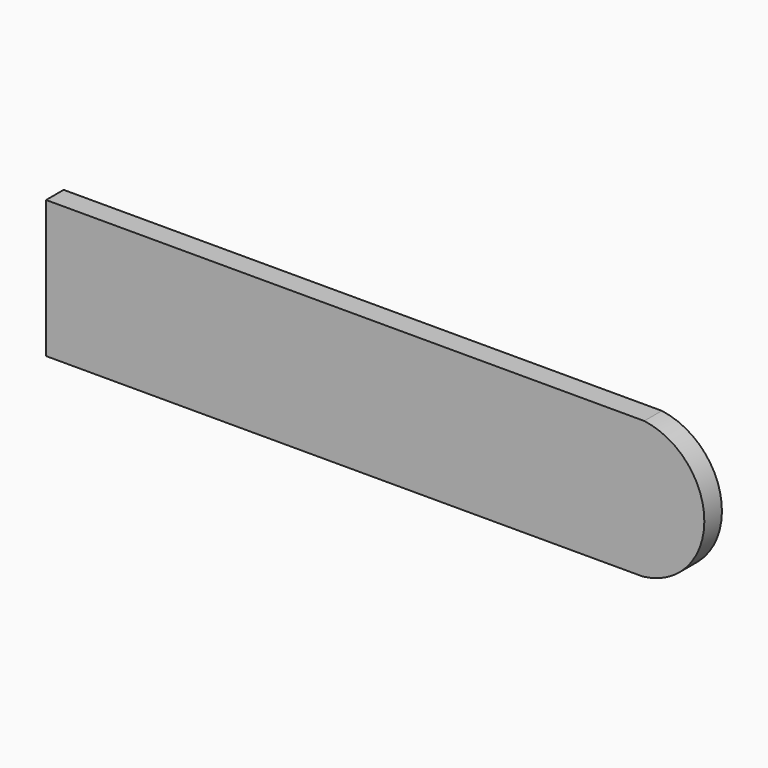
from build123d import *

# Parameters (mm, degrees)
F0_W     = 120
F0_H     = 25
F1_DEPTH = 4
F3_DEPTH = 25


with BuildPart() as f1:
    # F0 (on Front) → F1 (new body)
    with BuildSketch(Plane.XZ):
        Rectangle(F0_W, F0_H)
    extrude(amount=F1_DEPTH)

    # F2 (on face) → F3 (cut)
    with BuildSketch(Plane.XZ.offset(4)):
        with BuildLine():
            ThreePointArc((48.815694, 12.5), (59.74342, -0.104365), (48.579484, -12.5))
            Line((48.579484, -12.5), (60, -12.5))
            Line((60, -12.5), (60, 12.5))
            Line((60, 12.5), (48.815694, 12.5))
        make_face()
    extrude(amount=-F3_DEPTH, mode=Mode.SUBTRACT)


solid = f1.part
